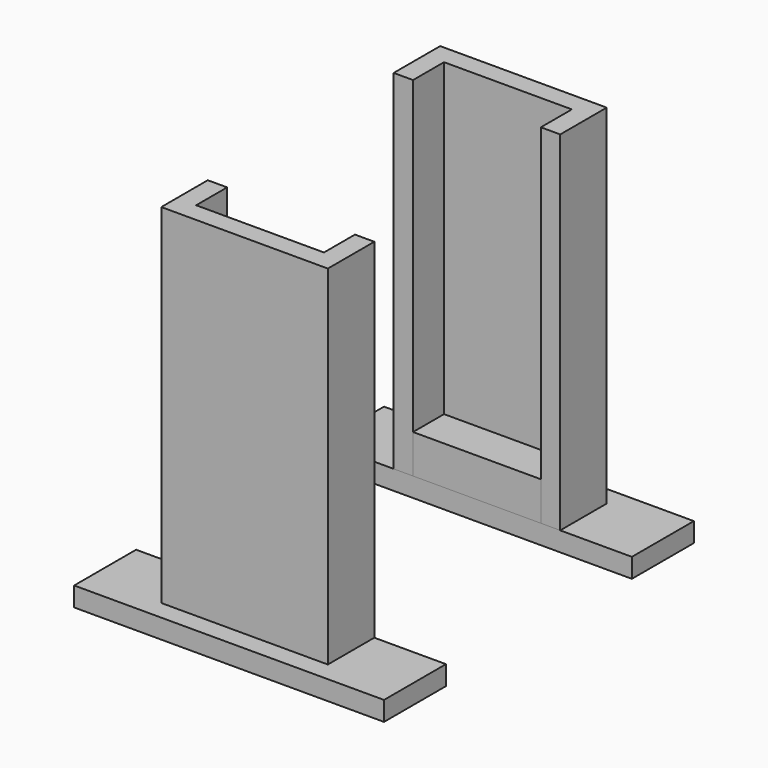
from build123d import *

# Parameters (mm, degrees)
F0_W     = 5
F0_H     = 10.0000009071
F0_W_2   = 33
F1_DEPTH = 5
F2_DEPTH = 10
F3_DEPTH = 90


with BuildPart() as f1:
    # F0 (on Top) → F1 (new body)
    with BuildSketch(Plane.XY):
        Polygon((-21.5000037253, -13.1741991769), (-40.0000037253, -13.1741991769), (-40.0000037253, -33.1742009911), (39.9999962747, -33.1742009911), (39.9999962747, -13.1741991769), (21.4999962747, -13.1741991769), (21.4999962747, -23.174200084), (21.4999962747, -28.174200084), (-21.5000037253, -28.174200084), (-21.5000037253, -23.174200084), align=None)
        with Locations((-19.0000037253, -18.1741996305)):
            Rectangle(F0_W, F0_H)
        with Locations((-3.7253e-06, -18.1741996305)):
            Rectangle(F0_W_2, F0_H)
        with Locations((18.9999962747, -18.1741996305)):
            Rectangle(F0_W, F0_H)
        with Locations((18.9999962747, -18.1741996305)):
            Rectangle(F0_W, F0_H)
        Polygon((-16.5000037253, -23.174200084), (-21.5000037253, -23.174200084), (-21.5000037253, -28.174200084), (21.4999962747, -28.174200084), (21.4999962747, -23.174200084), (16.4999962747, -23.174200084), align=None)
        with Locations((-19.0000037253, -18.1741996305)):
            Rectangle(F0_W, F0_H)
    extrude(amount=-F1_DEPTH)


with BuildPart() as f1b:
    # F0 (on Top) → F1, piece 2 (new body)
    with BuildSketch(Plane.XY):
        Polygon((-40.0000037253, 66.8258026372), (-40.0000037253, 46.8258008231), (-21.5000037253, 46.8258008231), (-21.5000037253, 56.8258017302), (-21.5000037253, 61.8258017302), (21.4999962747, 61.8258017302), (21.4999962747, 56.8258017302), (21.4999962747, 46.8258008231), (39.9999962747, 46.8258008231), (39.9999962747, 66.8258026372), align=None)
        with Locations((-19.0000037253, 51.8258012766)):
            Rectangle(F0_W, F0_H)
        with Locations((-3.7253e-06, 51.8258012766)):
            Rectangle(F0_W_2, F0_H)
        with Locations((18.9999962747, 51.8258012766)):
            Rectangle(F0_W, F0_H)
        with Locations((18.9999962747, 51.8258012766)):
            Rectangle(F0_W, F0_H)
        Polygon((-21.5000037253, 61.8258017302), (-21.5000037253, 56.8258017302), (-16.5000037253, 56.8258017302), (16.4999962747, 56.8258017302), (21.4999962747, 56.8258017302), (21.4999962747, 61.8258017302), align=None)
        with Locations((-19.0000037253, 51.8258012766)):
            Rectangle(F0_W, F0_H)
    extrude(amount=-F1_DEPTH)


with BuildPart() as f2:
    # F0 (on Top) → F2 (new body)
    with BuildSketch(Plane.XY):
        with Locations((-19.0000037253, -18.1741996305)):
            Rectangle(F0_W, F0_H)
        Polygon((-16.5000037253, -23.174200084), (-21.5000037253, -23.174200084), (-21.5000037253, -28.174200084), (21.4999962747, -28.174200084), (21.4999962747, -23.174200084), (16.4999962747, -23.174200084), align=None)
        with Locations((18.9999962747, -18.1741996305)):
            Rectangle(F0_W, F0_H)
        with Locations((-19.0000037253, -18.1741996305)):
            Rectangle(F0_W, F0_H)
        with Locations((-3.7253e-06, -18.1741996305)):
            Rectangle(F0_W_2, F0_H)
        with Locations((18.9999962747, -18.1741996305)):
            Rectangle(F0_W, F0_H)
    extrude(amount=F2_DEPTH)


with BuildPart() as f2b:
    # F0 (on Top) → F2, piece 2 (new body)
    with BuildSketch(Plane.XY):
        with Locations((-19.0000037253, 51.8258012766)):
            Rectangle(F0_W, F0_H)
        Polygon((-21.5000037253, 61.8258017302), (-21.5000037253, 56.8258017302), (-16.5000037253, 56.8258017302), (16.4999962747, 56.8258017302), (21.4999962747, 56.8258017302), (21.4999962747, 61.8258017302), align=None)
        with Locations((18.9999962747, 51.8258012766)):
            Rectangle(F0_W, F0_H)
        with Locations((-19.0000037253, 51.8258012766)):
            Rectangle(F0_W, F0_H)
        with Locations((-3.7253e-06, 51.8258012766)):
            Rectangle(F0_W_2, F0_H)
        with Locations((18.9999962747, 51.8258012766)):
            Rectangle(F0_W, F0_H)
    extrude(amount=F2_DEPTH)


with BuildPart() as f3:
    # F0 (on Top) → F3 (new body)
    with BuildSketch(Plane.XY):
        with Locations((18.9999962747, -18.1741996305)):
            Rectangle(F0_W, F0_H)
        Polygon((-16.5000037253, -23.174200084), (-21.5000037253, -23.174200084), (-21.5000037253, -28.174200084), (21.4999962747, -28.174200084), (21.4999962747, -23.174200084), (16.4999962747, -23.174200084), align=None)
        with Locations((-19.0000037253, -18.1741996305)):
            Rectangle(F0_W, F0_H)
    extrude(amount=F3_DEPTH)


with BuildPart() as f3b:
    # F0 (on Top) → F3, piece 2 (new body)
    with BuildSketch(Plane.XY):
        with Locations((18.9999962747, 51.8258012766)):
            Rectangle(F0_W, F0_H)
        Polygon((-21.5000037253, 61.8258017302), (-21.5000037253, 56.8258017302), (-16.5000037253, 56.8258017302), (16.4999962747, 56.8258017302), (21.4999962747, 56.8258017302), (21.4999962747, 61.8258017302), align=None)
        with Locations((-19.0000037253, 51.8258012766)):
            Rectangle(F0_W, F0_H)
    extrude(amount=F3_DEPTH)


solid = Compound([f1.part, f1b.part, f2.part, f2b.part, f3.part, f3b.part])
